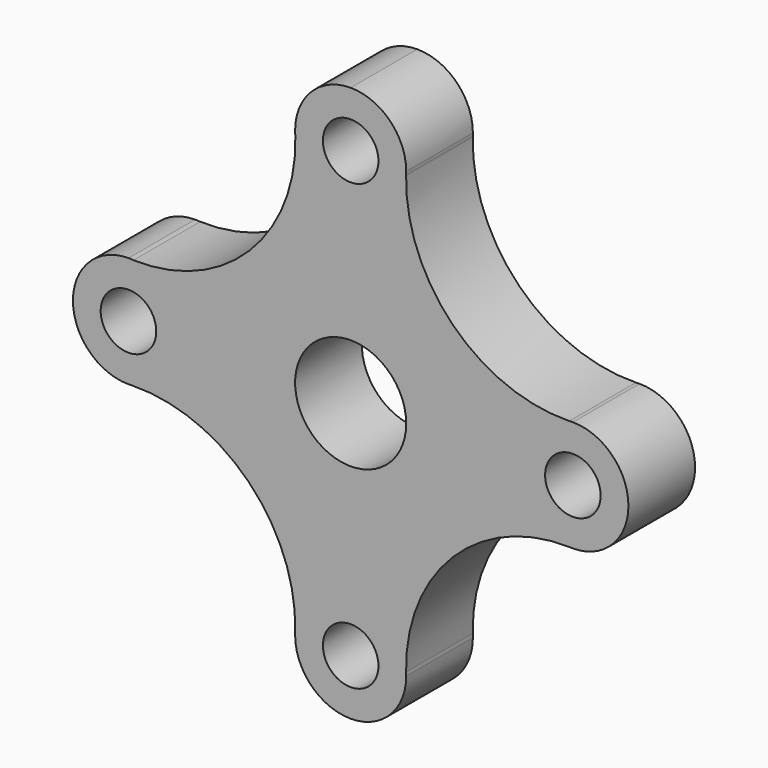
from build123d import *

# Parameters (mm, degrees)
F0_R     = 6.35
F0_R_2   = 12.7
F1_DEPTH = 19.05


with BuildPart() as f1:
    # F0 (on Front) → F1 (new body)
    with BuildSketch(Plane.XZ):
        with BuildLine():
            ThreePointArc((0, 57.15), (-4.490128, 46.309872), (6.35, 50.8))
            ThreePointArc((6.35, 50.8), (4.490128, 55.290128), (0, 57.15))
        make_face()
        with BuildLine():
            ThreePointArc((12.7, 50.8), (8.980256, 59.780256), (0, 63.5))
            ThreePointArc((0, 63.5), (-8.980256, 59.780256), (-12.7, 50.8))
            ThreePointArc((-12.7, 50.8), (-12.669337, 50.225448), (-12.64787, 49.65048))
            ThreePointArc((-12.64787, 49.65048), (-23.165954, 23.165954), (-49.65048, 12.64787))
            ThreePointArc((-49.65048, 12.64787), (-50.225448, 12.669337), (-50.8, 12.7))
            ThreePointArc((-50.8, 12.7), (-63.5, 0), (-50.8, -12.7))
            ThreePointArc((-50.8, -12.7), (-50.384765, -12.684041), (-49.969374, -12.672808))
            ThreePointArc((-49.969374, -12.672808), (-23.362469, -23.362469), (-12.672808, -49.969374))
            ThreePointArc((-12.672808, -49.969374), (-12.684041, -50.384765), (-12.7, -50.8))
            ThreePointArc((-12.7, -50.8), (0, -63.5), (12.7, -50.8))
            ThreePointArc((12.7, -50.8), (12.684041, -50.384765), (12.672808, -49.969374))
            ThreePointArc((12.672808, -49.969374), (23.362469, -23.362469), (49.969374, -12.672808))
            ThreePointArc((49.969374, -12.672808), (50.384765, -12.684041), (50.8, -12.7))
            ThreePointArc((50.8, -12.7), (63.5, 0), (50.8, 12.7))
            ThreePointArc((50.8, 12.7), (50.384765, 12.684041), (49.969374, 12.672808))
            ThreePointArc((49.969374, 12.672808), (23.362469, 23.362469), (12.672808, 49.969374))
            ThreePointArc((12.672808, 49.969374), (12.684041, 50.384765), (12.7, 50.8))
        make_face()
        with Locations((0, -50.8)):
            Circle(F0_R, mode=Mode.SUBTRACT)
        with Locations((-50.8, 0)):
            Circle(F0_R, mode=Mode.SUBTRACT)
        Circle(F0_R_2, mode=Mode.SUBTRACT)
        with Locations((50.8, 0)):
            Circle(F0_R, mode=Mode.SUBTRACT)
        with BuildLine():
            ThreePointArc((0, 57.15), (4.490128, 55.290128), (6.35, 50.8))
            ThreePointArc((6.35, 50.8), (-4.490128, 46.309872), (0, 57.15))
        make_face(mode=Mode.SUBTRACT)
        with BuildLine():
            ThreePointArc((12.672808, 49.969374), (12.6932, 50.384465), (12.7, 50.8))
            ThreePointArc((12.7, 50.8), (12.684041, 50.384765), (12.672808, 49.969374))
        make_face()
        with BuildLine():
            ThreePointArc((-12.64787, 49.65048), (-12.669337, 50.225448), (-12.7, 50.8))
            ThreePointArc((-12.7, 50.8), (-12.686961, 50.224649), (-12.64787, 49.65048))
        make_face()
        with BuildLine():
            ThreePointArc((50.8, 12.7), (50.384465, 12.6932), (49.969374, 12.672808))
            ThreePointArc((49.969374, 12.672808), (50.384765, 12.684041), (50.8, 12.7))
        make_face()
        with BuildLine():
            ThreePointArc((-50.8, 12.7), (-50.225448, 12.669337), (-49.65048, 12.64787))
            ThreePointArc((-49.65048, 12.64787), (-50.224649, 12.686961), (-50.8, 12.7))
        make_face()
        with BuildLine():
            ThreePointArc((49.969374, -12.672808), (50.384465, -12.6932), (50.8, -12.7))
            ThreePointArc((50.8, -12.7), (50.384765, -12.684041), (49.969374, -12.672808))
        make_face()
        with BuildLine():
            ThreePointArc((-49.969374, -12.672808), (-50.384765, -12.684041), (-50.8, -12.7))
            ThreePointArc((-50.8, -12.7), (-50.384465, -12.6932), (-49.969374, -12.672808))
        make_face()
        with BuildLine():
            ThreePointArc((12.7, -50.8), (12.6932, -50.384465), (12.672808, -49.969374))
            ThreePointArc((12.672808, -49.969374), (12.684041, -50.384765), (12.7, -50.8))
        make_face()
        with BuildLine():
            ThreePointArc((-12.7, -50.8), (-12.684041, -50.384765), (-12.672808, -49.969374))
            ThreePointArc((-12.672808, -49.969374), (-12.6932, -50.384465), (-12.7, -50.8))
        make_face()
    extrude(amount=F1_DEPTH)


solid = f1.part
